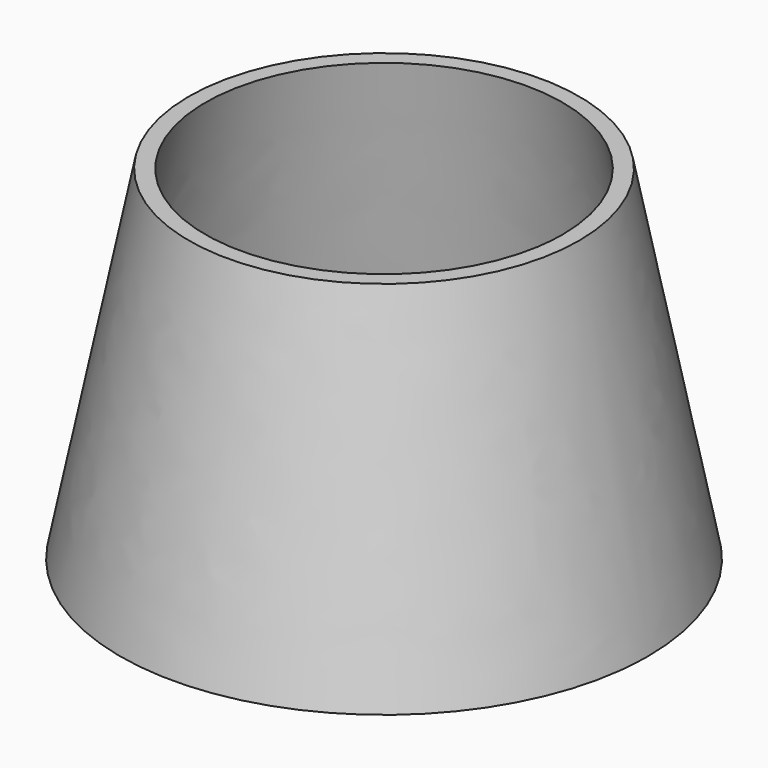
from build123d import *

# Parameters (mm, degrees)
F9_R  = 19.2
F0_R  = 17.2
F3_R  = 15.2
F6_R  = 14.2
F10_R = 18
F1_R  = 16
F4_R  = 14
F7_R  = 13


with BuildPart() as f11:
    # F9 (on offset) → F11 section 0
    with BuildSketch(Plane.XY.offset(-10)):
        Circle(F9_R)
    # F0 (on Top) → F11 section 1
    with BuildSketch(Plane.XY):
        Circle(F0_R)
    # F3 (on offset) → F11 section 2
    with BuildSketch(Plane.XY.offset(10)):
        Circle(F3_R)
    # F6 (on offset) → F11 section 3
    with BuildSketch(Plane.XY.offset(15)):
        Circle(F6_R)
    loft()

    # F10 (on offset) → F12 section 0
    with BuildSketch(Plane.XY.offset(-10)):
        Circle(F10_R)
    # F1 (on Top) → F12 section 1
    with BuildSketch(Plane.XY):
        Circle(F1_R)
    # F4 (on offset) → F12 section 2
    with BuildSketch(Plane.XY.offset(10)):
        Circle(F4_R)
    # F7 (on offset) → F12 section 3
    with BuildSketch(Plane.XY.offset(15)):
        Circle(F7_R)
    loft(mode=Mode.SUBTRACT)


solid = f11.part
